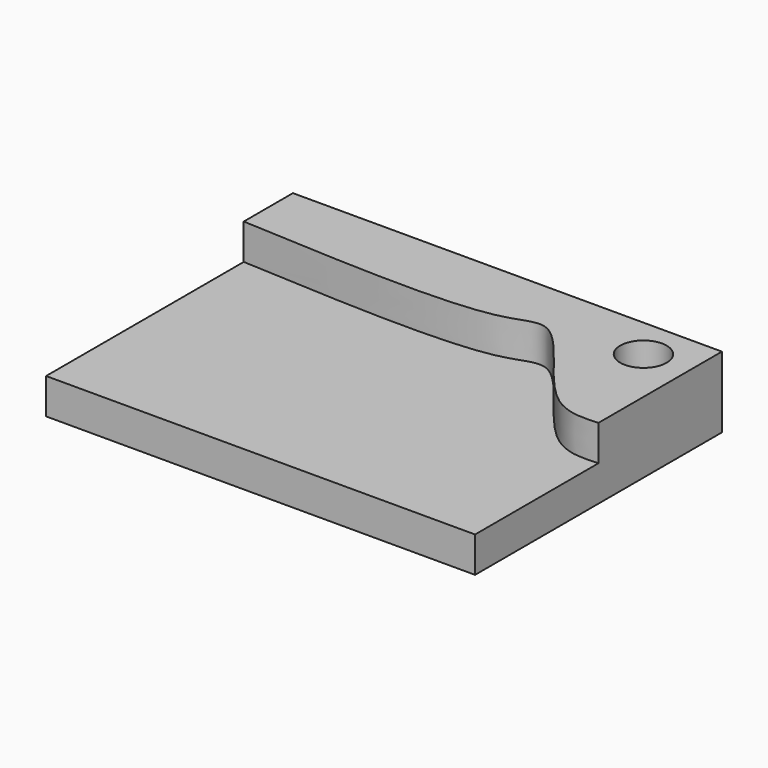
from build123d import *

# Parameters (mm, degrees)
F0_W     = 153.1731467694
F0_H     = 110.1697087288
F1_DEPTH = 12.7
F3_DEPTH = 12.7
F4_R     = 8.2903217001
F5_DEPTH = 12.7


with BuildPart() as f1:
    # F0 (on Top) → F1 (new body)
    with BuildSketch(Plane.XY):
        with Locations((-64.4964575768, 17.2817707062)):
            Rectangle(F0_W, F0_H)
    extrude(amount=F1_DEPTH)

    # F2 (on face) → F3 (join)
    with BuildSketch(Plane.XY.offset(12.7)):
        with BuildLine():
            Line((-141.0830309615, 72.3666250706), (-141.0830309615, 50.4142977297))
            add(Edge.make_bspline(
                [(-141.0830309615, 50.4142977297), (-103.395934181, 48.3975501002), (-50.5960336004, 45.5720717952), (-33.1345654521, 59.8055398639), (-7.7130214935, 15.9331957658), (6.4969246779, 16.9008796746), (12.090115808, 17.2817707062)],
                knots=[0, 0, 0, 0, 0.3965469516, 0.5555652042, 0.8250655753, 1, 1, 1, 1], degree=3))
            Line((12.090115808, 17.2817707062), (12.090115808, 72.3666250706))
            Line((12.090115808, 72.3666250706), (-141.0830309615, 72.3666250706))
        make_face()
    extrude(amount=F3_DEPTH)

    # F4 (on face) → F5 (cut)
    with BuildSketch(Plane.XY.offset(25.4)):
        with Locations((-4.0278891101, 57.4900098145)):
            Circle(F4_R)
    extrude(amount=-F5_DEPTH, mode=Mode.SUBTRACT)


solid = f1.part
